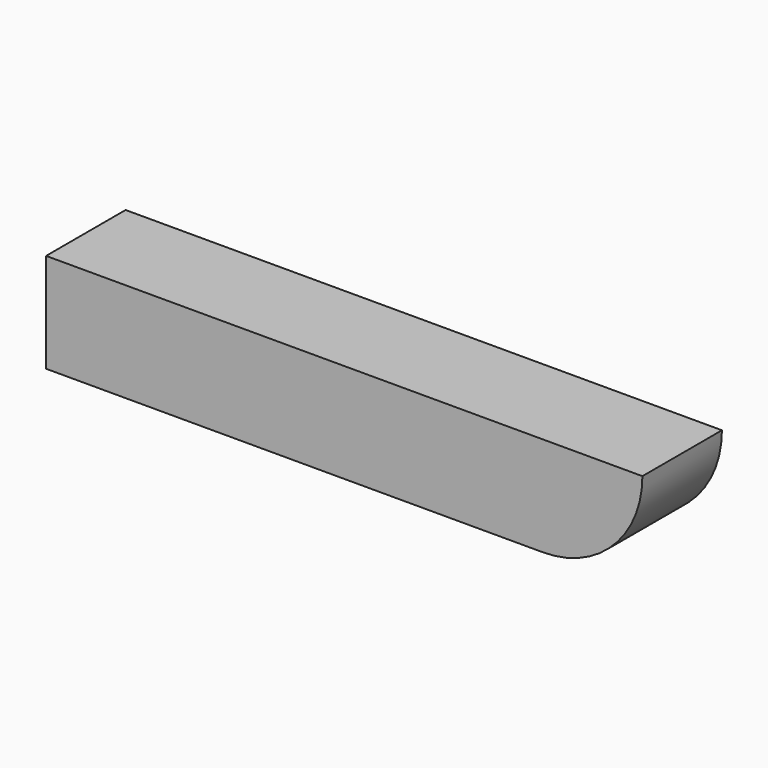
from build123d import *

# Parameters (mm, degrees)
F0_W     = 127
F0_H     = 25.4
F1_DEPTH = 25.4


with BuildPart() as f1:
    # F0 (on Front) → F1 (new body)
    with BuildSketch(Plane.XZ):
        with BuildLine():
            Line((73.932046, 12.662557), (48.532046, 12.662557))
            Line((48.532046, 12.662557), (48.532046, -12.737443))
            ThreePointArc((48.532046, -12.737443), (66.492558, -5.297955), (73.932046, 12.662557))
        make_face()
        with Locations((-14.967954, -0.037443)):
            Rectangle(F0_W, F0_H)
    extrude(amount=F1_DEPTH)


solid = f1.part
